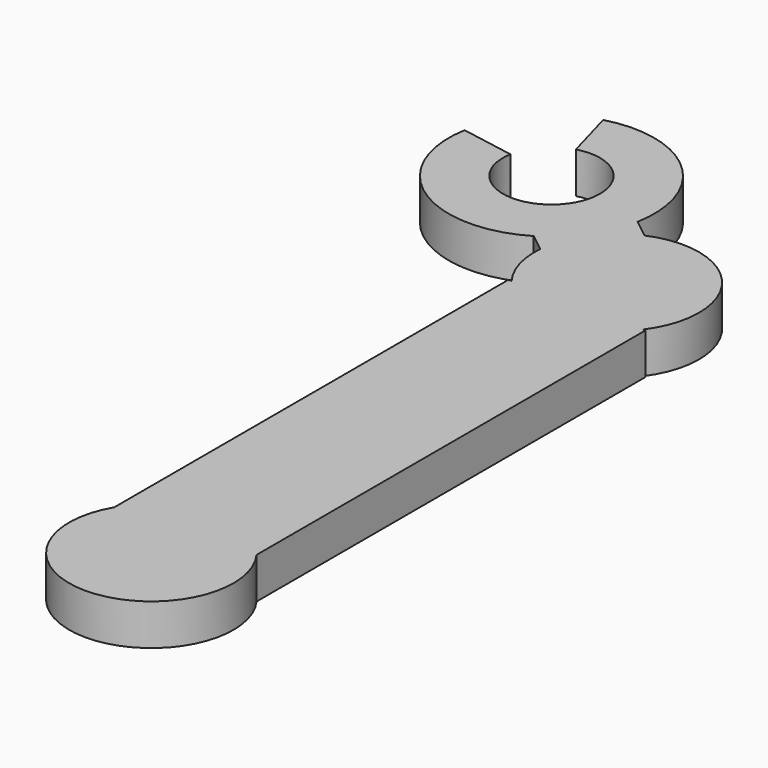
from build123d import *

# Parameters (mm, degrees)
F0_W      = 10
F0_H      = 36
F3_DEPTH  = 3
F2_R      = 6
F4_DEPTH  = 3
F1_R      = 6
F5_DEPTH  = 3
F7_R      = 7.5
F9_DEPTH  = 3
F10_DEPTH = 3
F12_R     = 3.5448933786
F13_DEPTH = 25


with BuildPart() as f3:
    # F0 (on Top) → F3 (new body)
    with BuildSketch(Plane.XY):
        with Locations((5, -18)):
            Rectangle(F0_W, F0_H)
    extrude(amount=F3_DEPTH)

    # F2 (on Top) → F4 (join)
    with BuildSketch(Plane.XY):
        with Locations((5.1598995924, -39.019856602)):
            Circle(F2_R)
    extrude(amount=F4_DEPTH)

    # F1 (on Top) → F5 (join)
    with BuildSketch(Plane.XY):
        with Locations((5.0253178924, 3.6079895217)):
            Circle(F1_R)
    extrude(amount=F5_DEPTH)


with BuildPart() as f9:
    # F7 (on Top) → F9 (new body)
    with BuildSketch(Plane.XY):
        with Locations((-6.096528843, 11.5525964648)):
            Circle(F7_R)
    extrude(amount=F9_DEPTH)


with BuildPart() as f10:
    # F6 (on Top) → F10 (new body)
    with BuildSketch(Plane.XY):
        Polygon((-0.9610534762, 4.1011222638), (2.8653789777, 8.9345108718), (1.0522136364, 10.3699333609), (-2.9573408003, 5.6815163153), align=None)
    extrude(amount=F10_DEPTH)


with BuildPart() as f9_1:
    add(f9.part)

    # F11: union F3, F10
    add(f3.part)
    add(f10.part)

    # F8 (on Top) + F12 (on face) → F13 (cut)
    with BuildSketch(Plane.XY):
        Polygon((-19.6032542735, 13.9494352043), (-6.0890447348, 11.5491952747), (-9.477134794, 23.6695185304), align=None)
    with BuildSketch(Plane(origin=(0, 0, 0), x_dir=(1, 0, 0), z_dir=(0, 0, -1))):
        with Locations((-6.096528843, -11.5525964648)):
            Circle(F12_R)
    extrude(amount=F13_DEPTH, dir=(0, 0, 1), mode=Mode.SUBTRACT)


solid = f9_1.part
